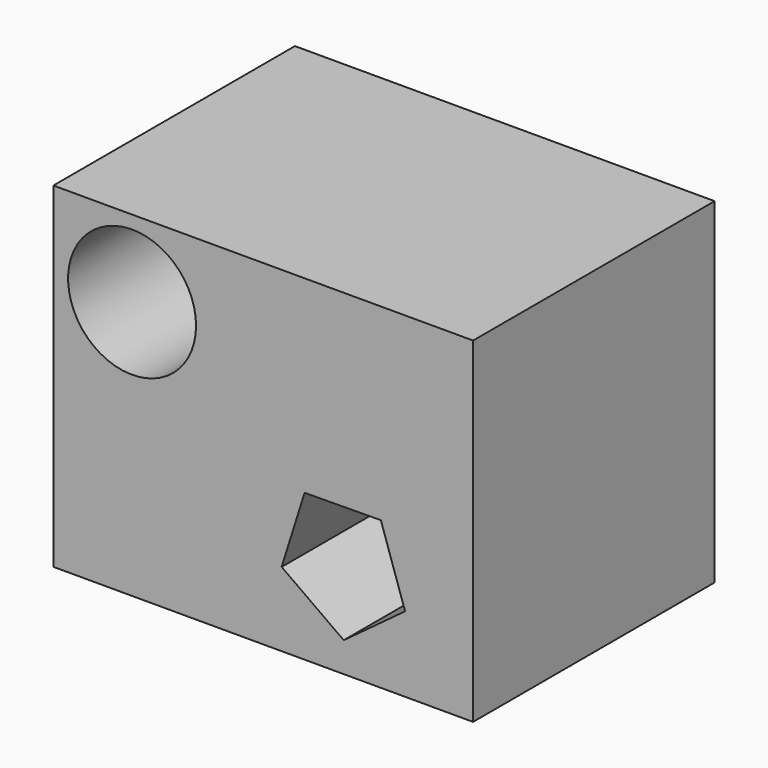
from build123d import *

# Parameters (mm, degrees)
F0_W     = 125
F0_H     = 100
F0_R     = 19.05
F1_DEPTH = 89.916


with BuildPart() as f1:
    # F0 (on Front) → F1 (new body)
    with BuildSketch(Plane.XZ):
        Rectangle(F0_W, F0_H)
        Polygon((35.031748, -6.038517), (42.241403, -27.583478), (23.978834, -41.098026), (5.48229, -27.905516), (12.313367, -6.237548), align=None, mode=Mode.SUBTRACT)
        with Locations((-39.0625, 27.042078)):
            Circle(F0_R, mode=Mode.SUBTRACT)
    extrude(amount=F1_DEPTH)


solid = f1.part
